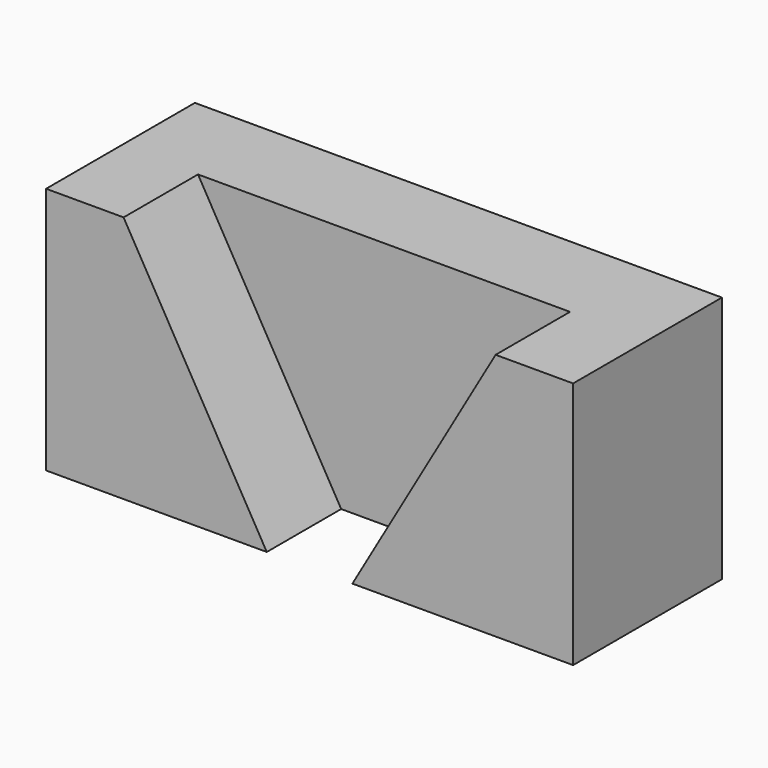
from build123d import *

# Parameters (mm, degrees)
F1_DEPTH = 24
F2_DEPTH = 12


with BuildPart() as f1:
    # F0 (on Front) → F1 (new body)
    with BuildSketch(Plane.XZ):
        Polygon((0, 32), (0, 0), (28.475209, 0), (10, 32), align=None)
        Polygon((10, 32), (28.475209, 0), (39.524791, 0), (58, 32), align=None)
        Polygon((58, 32), (39.524791, 0), (68, 0), (68, 32), align=None)
    extrude(amount=-F1_DEPTH)

    # F0 (on Front) → F2 (cut)
    with BuildSketch(Plane.XZ):
        Polygon((10, 32), (28.475209, 0), (39.524791, 0), (58, 32), align=None)
    extrude(amount=-F2_DEPTH, mode=Mode.SUBTRACT)


solid = f1.part
